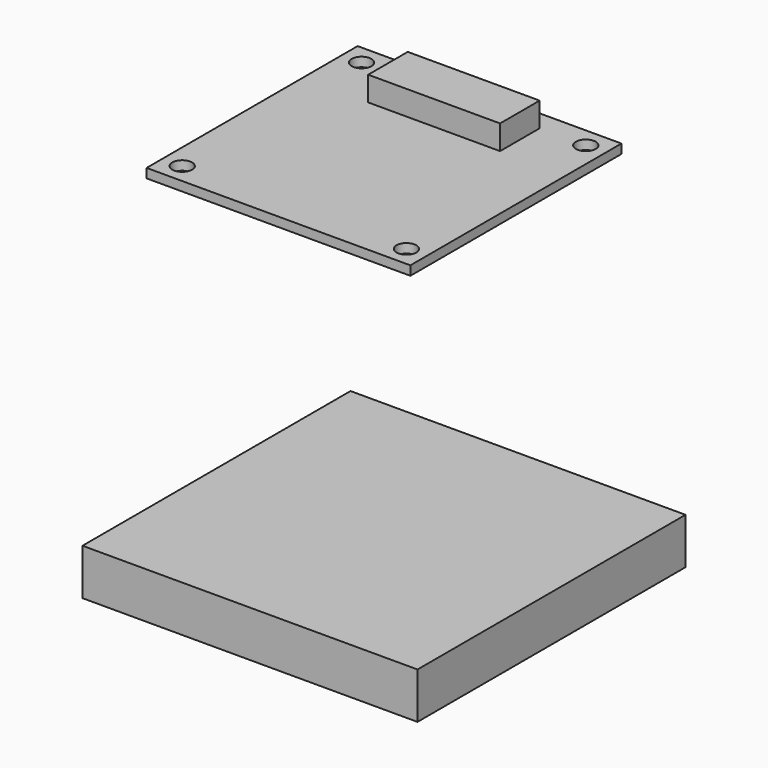
from build123d import *

# Parameters (mm, degrees)
F0_W     = 20
F0_H     = 20
F0_W_2   = 10
F0_H_2   = 3.75
F1_DEPTH = 0.7
F2_D     = 1.5
F3_W     = 10
F3_H     = 3.75
F4_DEPTH = 1.85
F6_W     = 25.4
F6_H     = 25.4
F7_DEPTH = 3.5


with BuildPart() as f1:
    # F0 (on Top) → F1 (new body)
    with BuildSketch(Plane.XY):
        Rectangle(F0_W, F0_H)
        with Locations((0, 6.625)):
            Rectangle(F0_W_2, F0_H_2, mode=Mode.SUBTRACT)
        with Locations((0, 6.625)):
            Rectangle(F0_W_2, F0_H_2)
    extrude(amount=-F1_DEPTH)

    # F2 (through all)
    with Locations(Plane.XY):
        with Locations((-8.5, 8.5), (8.5, 8.5), (8.5, -8.5), (-8.5, -8.5)):
            Hole(F2_D / 2)

    # F3 (on Top) → F4 (join, symmetric)
    with BuildSketch(Plane.XY):
        with Locations((0, 6.625)):
            Rectangle(F3_W, F3_H)
    extrude(amount=F4_DEPTH, both=True)


with BuildPart() as f7:
    # F6 (on offset) → F7 (new body)
    with BuildSketch(Plane.XY.offset(-25)):
        Rectangle(F6_W, F6_H)
    extrude(amount=-F7_DEPTH)


solid = Compound([f1.part, f7.part])
